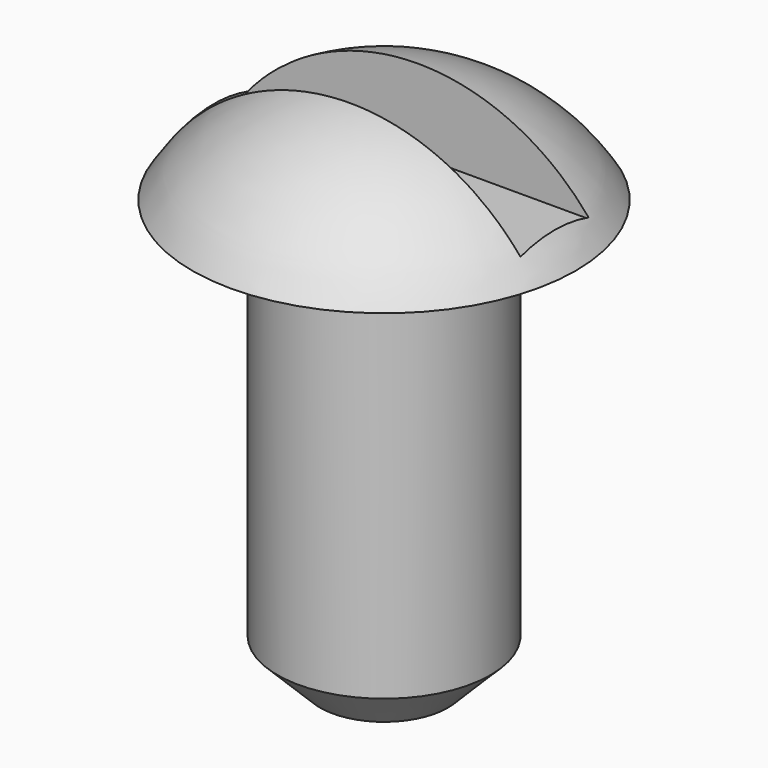
from build123d import *

# Parameters (mm, degrees)
F3_W     = 10.16
F3_H     = 2.54
F4_DEPTH = 2.541
F5_SIZE  = 1.27


with BuildPart() as f1:
    # F0 (on Front) → F1 (revolve)
    with BuildSketch(Plane.XZ):
        with BuildLine():
            Line((0, 15.875), (0, 0))
            Line((0, 0), (3.175, 0))
            Line((3.175, 0), (3.175, 12.7))
            Line((3.175, 12.7), (5.715, 12.7))
            ThreePointArc((5.715, 12.7), (3.268863, 15.027952), (0, 15.875))
        make_face()
    revolve(axis=Axis((0, 0, 6.519743), (0, 0, -1)))

    # F3 (on offset) → F4 (cut, through all)
    with BuildSketch(Plane(origin=(0, 0, 13.335), x_dir=(1, 0, 0), z_dir=(0, 0, -1))):
        Rectangle(F3_W, F3_H)
    extrude(amount=-F4_DEPTH, mode=Mode.SUBTRACT)

    # F5
    f5_edges = [f1.edges().sort_by_distance(p)[0] for p in [
        (-3.175, 0, 0),
    ]]
    chamfer(f5_edges, length=F5_SIZE)


solid = f1.part
